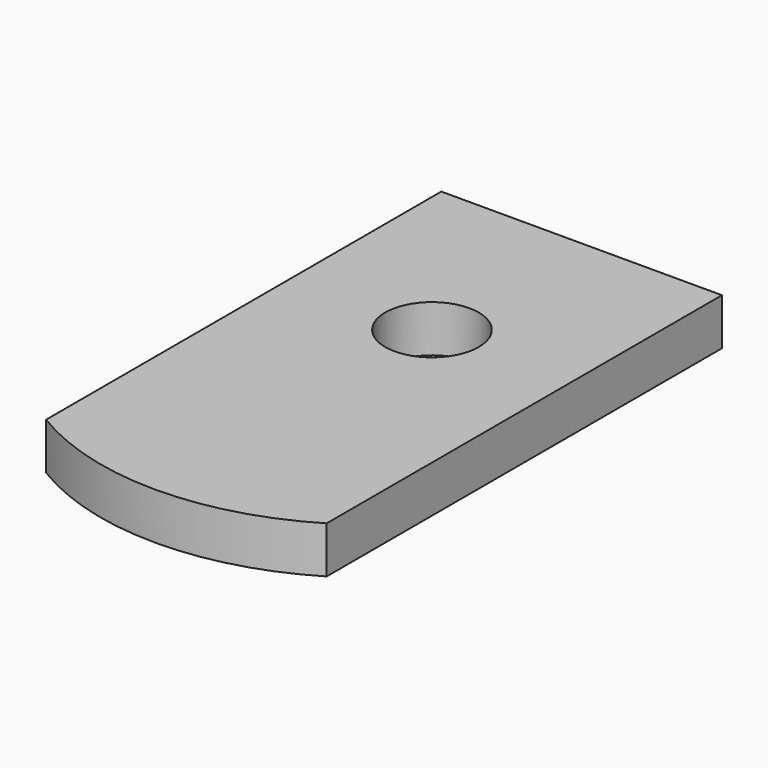
from build123d import *

# Parameters (mm, degrees)
F0_R     = 127
F1_DEPTH = 127


with BuildPart() as f1:
    # F0 (on Top) → F1 (new body)
    with BuildSketch(Plane.XY):
        with BuildLine():
            Line((381, 508), (0, 508))
            Line((0, 508), (-381, 508))
            Line((-381, 508), (-381, -833.611421))
            ThreePointArc((-381, -833.611421), (0, -939.8), (381, -833.611421))
            Line((381, -833.611421), (381, 508))
        make_face()
        Circle(F0_R, mode=Mode.SUBTRACT)
    extrude(amount=F1_DEPTH)


solid = f1.part
